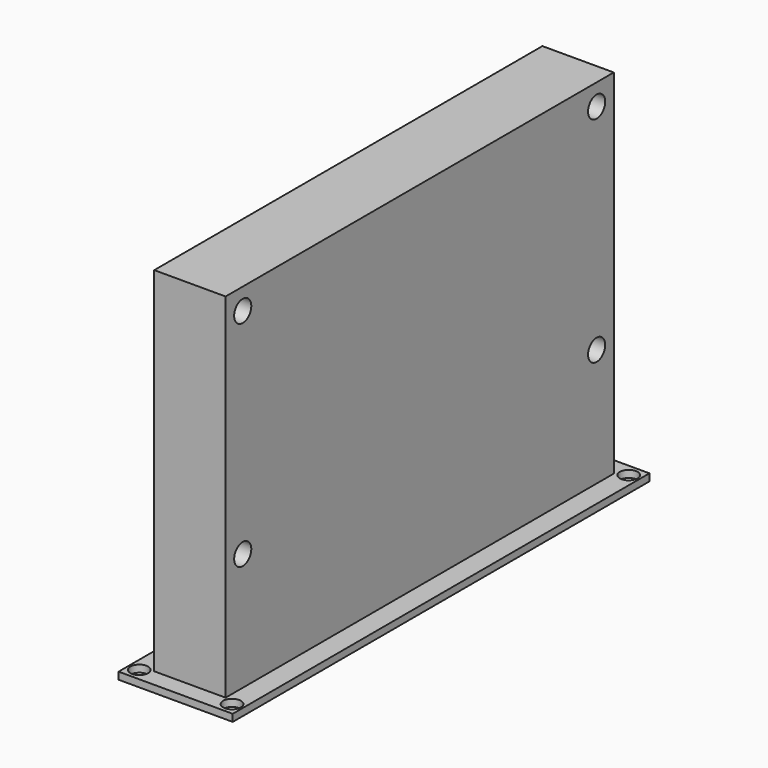
from build123d import *

# Parameters (mm, degrees)
SKETCH080_R     = 1.25
PAD056_DEPTH    = 1
SKETCH081_W     = 10
SKETCH081_H     = 68
PAD057_DEPTH    = 49.5
SKETCH082_R     = 1.5
POCKET015_DEPTH = 13.001


with BuildPart() as part:
    # Sketch080 → Pad056 (new body)
    with BuildSketch(Plane.XY):
        Polygon((-8, 36.5), (8, 36.5), (8, 33), (8, -33), (8, -36.5), (-8, -36.5), (-8, -33), (-8, 33), align=None)
        with Locations((-6.5, 34.75)):
            Circle(SKETCH080_R, mode=Mode.SUBTRACT)
        with Locations((6.5, 34.75)):
            Circle(SKETCH080_R, mode=Mode.SUBTRACT)
        with Locations((-6.5, -34.75)):
            Circle(SKETCH080_R, mode=Mode.SUBTRACT)
        with Locations((6.5, -34.75)):
            Circle(SKETCH080_R, mode=Mode.SUBTRACT)
    extrude(amount=PAD056_DEPTH)

    # Sketch081 (on Face14 of Pad056) → Pad057 (join)
    with BuildSketch(Plane.XY.offset(1)):
        Rectangle(SKETCH081_W, SKETCH081_H)
    extrude(amount=PAD057_DEPTH)

    # Sketch082 (on Face15 of Pad057) → Pocket015 (cut, through all)
    with BuildSketch(Plane(origin=(-5, 0, 0), x_dir=(0, -1, 0), z_dir=(-1, 0, 0))):
        with Locations((31, 47.5)):
            Circle(SKETCH082_R)
        with Locations((-31, 47.5)):
            Circle(SKETCH082_R)
        with Locations((-31, 17.5)):
            Circle(SKETCH082_R)
        with Locations((31, 17.5)):
            Circle(SKETCH082_R)
    extrude(amount=-POCKET015_DEPTH, mode=Mode.SUBTRACT)


with BuildPart() as part_1:
    # Body025 placement: moved
    add(part.part.moved(Location((-15, 0, 47))))


solid = part_1.part
